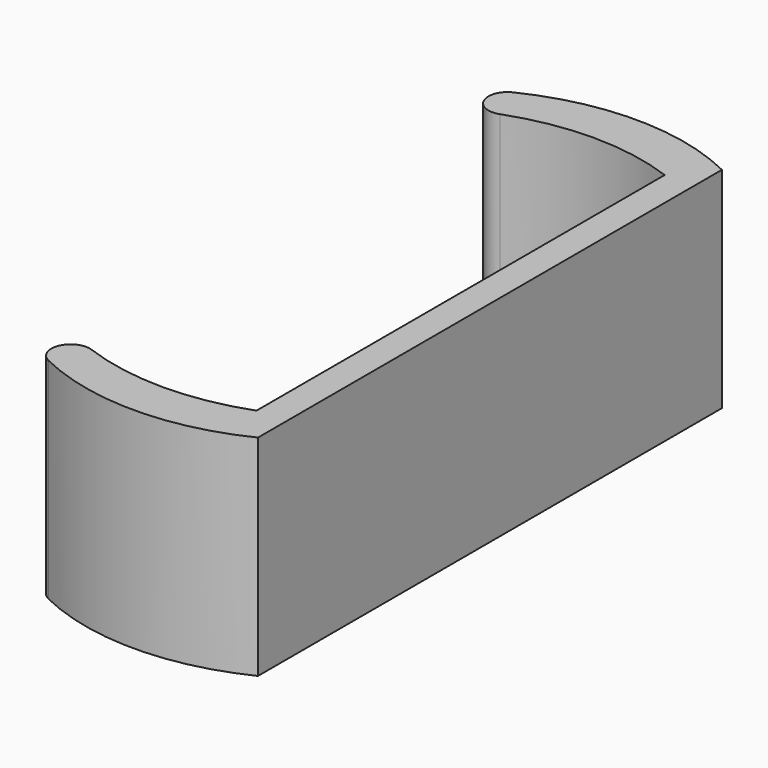
from build123d import *

# Parameters (mm, degrees)
F1_DEPTH = 25


with BuildPart() as f1:
    # F0 (on Top) → F1 (new body)
    with BuildSketch(Plane.XY):
        with BuildLine():
            ThreePointArc((-19.63329, 30.391514), (-9.816645, 32.135515), (0, 30.391514))
            Line((0, 30.391514), (0, -30.391514))
            ThreePointArc((0, -30.391514), (-9.816645, -32.135515), (-19.63329, -30.391514))
            ThreePointArc((-19.63329, -30.391514), (-22.525582, -31.645534), (-21.415574, -34.596093))
            ThreePointArc((-21.415574, -34.596093), (-8.951554, -37.435962), (3.5, -34.541927))
            Line((3.5, -34.541927), (3.5, 34.541927))
            ThreePointArc((3.5, 34.541927), (-8.951554, 37.435962), (-21.415574, 34.596093))
            ThreePointArc((-21.415574, 34.596093), (-22.525582, 31.645534), (-19.63329, 30.391514))
        make_face()
    extrude(amount=F1_DEPTH)


solid = f1.part
